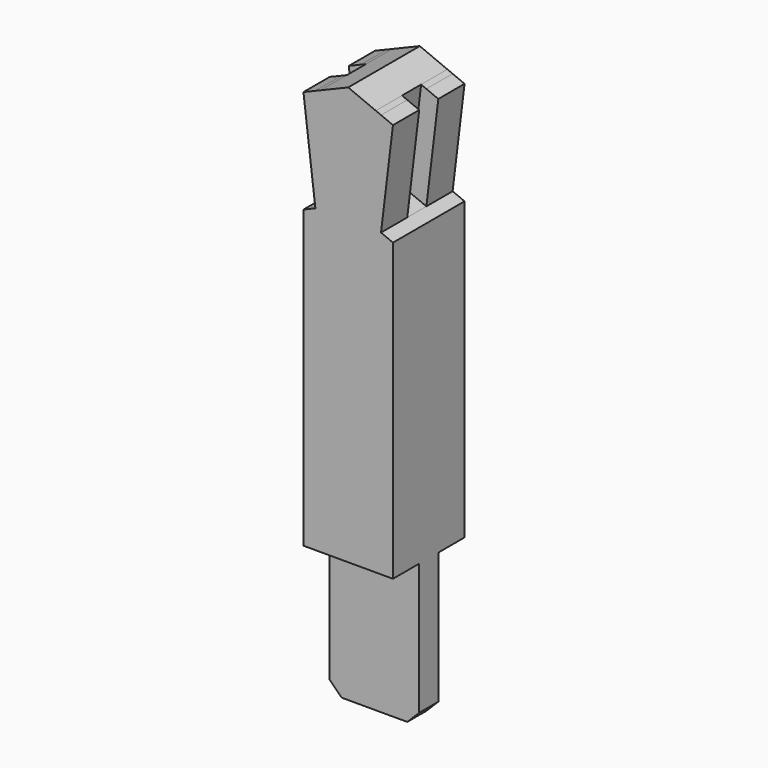
from build123d import *

# Parameters (mm, degrees)
F0_W          = 95.25
F0_H          = 101.6
F1_DEPTH      = 95.25
F2_W          = 69.85
F2_H          = 304.8
F3_DEPTH      = 95.251
F3_DEPTH_BACK = 95.251
F5_SIZE       = 25.4
F6_SIZE       = 25.4
F8_DEPTH      = 25.4


with BuildPart() as f1:
    # F0 (on Front) → F1 (new body, symmetric)
    with BuildSketch(Plane.XZ):
        with Locations((47.625, -50.8)):
            Rectangle(F0_W, F0_H)
        with Locations((-47.625, -50.8)):
            Rectangle(F0_W, F0_H)
        Polygon((95.25, 203.2), (-95.25, 203.2), (-95.25, 0), (0, 0), (95.25, 0), align=None)
        Polygon((33.3162687146, 858.8361700868), (0, 872.7179487179), (-33.3162687146, 858.8361700868), (-69.85, 843.6137820513), (-95.25, 833.0304487179), (-95.25, 203.2), (95.25, 203.2), (95.25, 833.0304487179), (69.85, 843.6137820513), align=None)
        Polygon((0, 872.7179487179), (0, 1092.8512820513), (-58.7162687146, 1068.3861700868), (-33.3162687146, 858.8361700868), align=None)
        Polygon((58.7162687146, 1068.3861700868), (0, 1092.8512820513), (0, 872.7179487179), (33.3162687146, 858.8361700868), align=None)
        Polygon((-33.3162687146, 858.8361700868), (-58.7162687146, 1068.3861700868), (-69.85, 1063.7471153846), (-69.85, 843.6137820513), align=None)
        Polygon((69.85, 1063.7471153846), (58.7162687146, 1068.3861700868), (33.3162687146, 858.8361700868), (69.85, 843.6137820513), align=None)
        Polygon((-33.3162687146, 858.8361700868), (-58.7162687146, 1068.3861700868), (-69.85, 1063.7471153846), (-69.85, 843.6137820513), align=None)
        Polygon((-69.85, 1063.7471153846), (-95.25, 1053.1637820513), (-69.85, 843.6137820513), align=None)
        Polygon((69.85, 843.6137820513), (95.25, 1053.1637820513), (69.85, 1063.7471153846), align=None)
        Polygon((69.85, 1063.7471153846), (58.7162687146, 1068.3861700868), (33.3162687146, 858.8361700868), (69.85, 843.6137820513), align=None)
    extrude(amount=F1_DEPTH, both=True)

    # F2 (on Right) → F3 (cut, two sides)
    with BuildSketch(Plane.YZ) as f3_sk:
        with Locations((-60.325, 50.8)):
            Rectangle(F2_W, F2_H)
        with Locations((60.325, 50.8)):
            Rectangle(F2_W, F2_H)
    extrude(amount=-F3_DEPTH, mode=Mode.SUBTRACT)
    extrude(f3_sk.sketch, amount=F3_DEPTH_BACK, mode=Mode.SUBTRACT)

    # F5
    f5_edges = [f1.edges().sort_by_distance(p)[0] for p in [
        (95.25, 0, -101.6),
    ]]
    chamfer(f5_edges, length=F5_SIZE)

    # F6
    f6_edges = [f1.edges().sort_by_distance(p)[0] for p in [
        (-95.25, 0, -101.6),
    ]]
    chamfer(f6_edges, length=F6_SIZE)

    # F7 (on Front) → F8 (cut, symmetric)
    with BuildSketch(Plane.XZ):
        Polygon((58.7162687146, 1068.3861700868), (33.3162687146, 858.8361700868), (69.85, 843.6137820513), (95.25, 1053.1637820513), align=None)
        Polygon((-33.3162687146, 858.8361700868), (-58.7162687146, 1068.3861700868), (-95.25, 1053.1637820513), (-69.85, 843.6137820513), align=None)
    extrude(amount=F8_DEPTH, both=True, mode=Mode.SUBTRACT)


solid = f1.part
